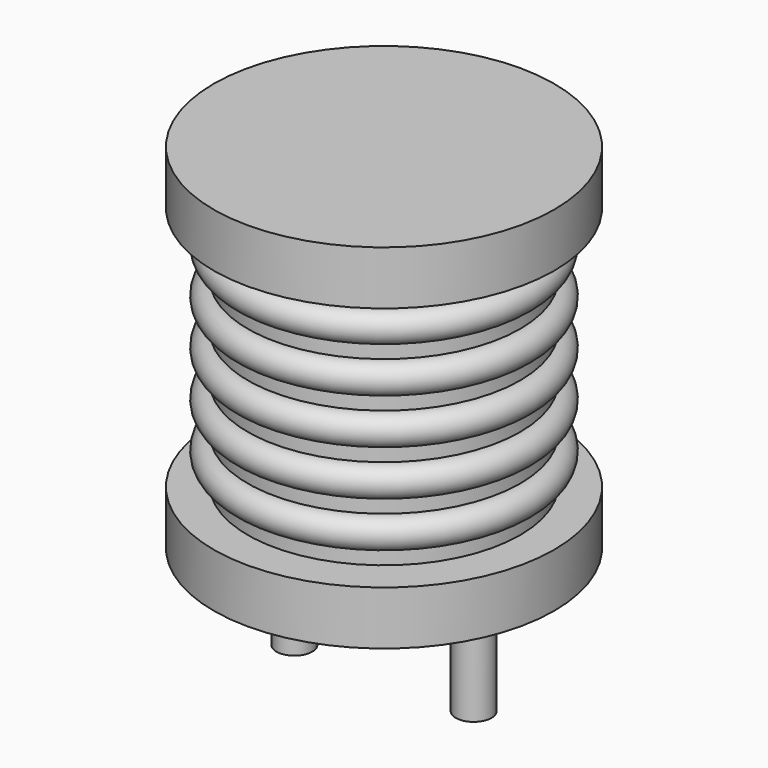
from build123d import *

# Parameters (mm, degrees)
SKETCH001_R  = 0.5
PAD001_DEPTH = 3.5


with BuildPart() as revolution:
    # Sketch → Revolution (revolve)
    with BuildSketch(Plane(origin=(2.5, 0, 0), x_dir=(1, 0, 0), z_dir=(0, -1, 0))):
        Polygon((0, 0.05), (1.5, 0.05), (1.5, 0.2), (4.75, 0.2), (4.75, 1.7), (0.95, 1.7), (0.95, 8.55), (4.75, 8.55), (4.75, 10.05), (0, 10.05), align=None)
    revolve(axis=Axis((2.5, 0, 0), (0, 0, 1)))


with BuildPart() as pad001:
    # Sketch001 → Pad001 (new body)
    with BuildSketch(Plane.XY.offset(0.5)):
        Circle(SKETCH001_R)
        with Locations((5, 0)):
            Circle(SKETCH001_R)
    extrude(amount=-PAD001_DEPTH)


with BuildPart() as obj1:
    # Sketch002 → Revolution001 (revolve)
    with BuildSketch(Plane(origin=(2.5, 0, 0), x_dir=(1, 0, 0), z_dir=(0, -1, 0))):
        with BuildLine():
            Line((3.8, 1.75), (0.95, 1.75))
            Line((0.95, 1.75), (0.95, 8.5))
            Line((0.95, 8.5), (3.8, 8.5))
            Line((3.8, 8.5), (3.8, 8.078125))
            ThreePointArc((3.8, 7.234375), (4.221875, 7.65625), (3.8, 8.078125))
            Line((3.8, 7.234375), (3.8, 6.8125))
            ThreePointArc((3.8, 5.96875), (4.221875, 6.390625), (3.8, 6.8125))
            Line((3.8, 5.96875), (3.8, 5.546875))
            ThreePointArc((3.8, 4.703125), (4.221875, 5.125), (3.8, 5.546875))
            Line((3.8, 4.703125), (3.8, 4.28125))
            ThreePointArc((3.8, 3.4375), (4.221875, 3.859375), (3.8, 4.28125))
            Line((3.8, 3.4375), (3.8, 3.015625))
            ThreePointArc((3.8, 2.171875), (4.221875, 2.59375), (3.8, 3.015625))
            Line((3.8, 1.75), (3.8, 2.171875))
        make_face()
    revolve(axis=Axis((2.5, 0, 0), (0, 0, 1)))

    add(revolution.part)
    add(pad001.part)


solid = obj1.part
